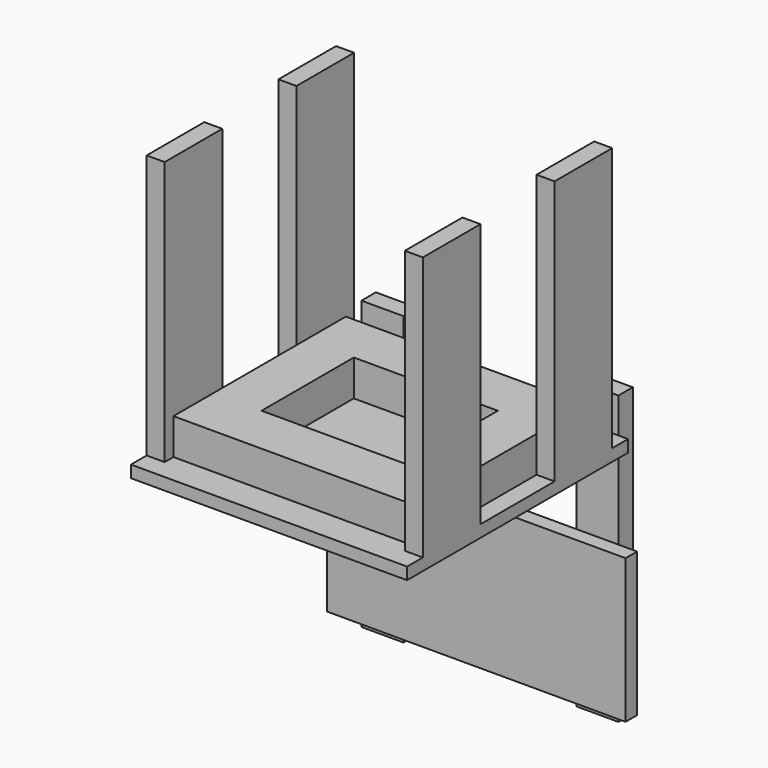
from build123d import *

# Parameters (mm, degrees)
F0_W           = 292.1
F0_H           = 292.1
F1_DEPTH       = 12.7
F3_W           = 19.05
F3_H           = 76.2
F4_DEPTH       = 279.4
F6_W           = 53.0352
F6_H           = 38.1
F7_DEPTH       = 254
F9_W           = 50.8
F9_H           = 38.1
F10_DEPTH      = 121.8899004574
F11_W          = 44.45
F11_H          = 19.05
F12_DEPTH      = 254
F12_DEPTH_BACK = 49.89103
F13_W          = 19.8010608381
F13_H          = 152.4
F13_W_2        = 44.45
F13_W_3        = 251.7297603481
F14_DEPTH      = 15.24


with BuildPart() as f1:
    # F0 (on Top) → F1 (new body)
    with BuildSketch(Plane.XY):
        with Locations((-9.5041804016, 32.6594091807)):
            Rectangle(F0_W, F0_H)
    extrude(amount=-F1_DEPTH)

    # F3 (on face) → F4 (join)
    with BuildSketch(Plane.XY):
        with Locations((127.0208195984, -54.4418936728)):
            Rectangle(F3_W, F3_H)
        with Locations((127.0208195984, 119.7607120342)):
            Rectangle(F3_W, F3_H)
        with Locations((-146.0291804016, -54.4418936728)):
            Rectangle(F3_W, F3_H)
        with Locations((-146.0291804016, 119.7607120342)):
            Rectangle(F3_W, F3_H)
    extrude(amount=F4_DEPTH)

    # F6 (on face) → F7 (join, through all)
    with BuildSketch(Plane(origin=(117.4958195984, 0, 0), x_dir=(0, -1, 0), z_dir=(-1, 0, 0))):
        with Locations((54.4418936728, 19.05)):
            Rectangle(F6_W, F6_H)
        with Locations((-120.4832067846, 19.05)):
            Rectangle(F6_W, F6_H)
    extrude(amount=F7_DEPTH)

    # F9 (on face) → F10 (join, through all)
    with BuildSketch(Plane(origin=(0, -27.9242936728, 0), x_dir=(-1, 0, 0), z_dir=(0, 1, 0))):
        with Locations((-92.0958195984, 19.05)):
            Rectangle(F9_W, F9_H)
        with Locations((111.1041804016, 19.05)):
            Rectangle(F9_W, F9_H)
    extrude(amount=F10_DEPTH)

    # F11 (on face) → F12 (join, two sides)
    with BuildSketch(Plane(origin=(0, 0, -12.7), x_dir=(1, 0, 0), z_dir=(0, 0, -1))) as f12_sk:
        with Locations((104.1608195984, -188.2344091807)):
            Rectangle(F11_W, F11_H)
        with Locations((-123.1691804016, -188.2344091807)):
            Rectangle(F11_W, F11_H)
    extrude(amount=F12_DEPTH)
    extrude(f12_sk.sketch, amount=-F12_DEPTH_BACK)

    # F13 (on face) → F14 (join)
    with BuildSketch(Plane.XZ.offset(-178.7094091807)):
        with Locations((136.2863500175, -177.8)):
            Rectangle(F13_W, F13_H)
        with Locations((104.1608195984, -177.8)):
            Rectangle(F13_W_2, F13_H)
        with Locations((-43.9290605756, -177.8)):
            Rectangle(F13_W_3, F13_H)
    extrude(amount=F14_DEPTH)


solid = f1.part
